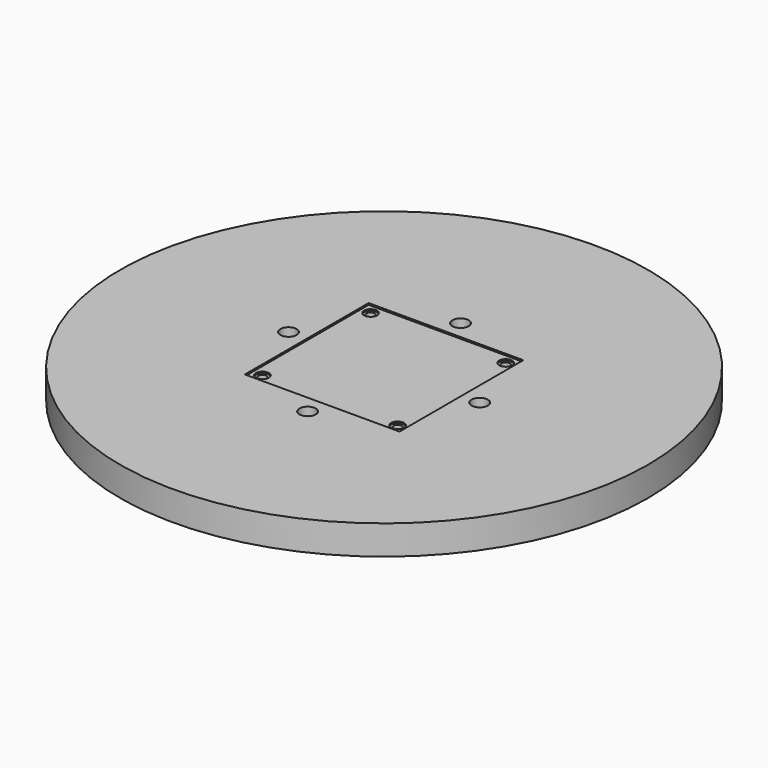
from build123d import *

# Parameters (mm, degrees)
SKETCH003_R      = 162.0844056183
PAD002_DEPTH     = 18
SKETCH009_W      = 95
SKETCH009_H      = 95
POCKET002_DEPTH  = 1
HOLE_D           = 5
HOLE_DEPTH       = 10
HOLE_CBORE_D     = 8
HOLE_CBORE_DEPTH = 1
SKETCH011_R      = 5
POCKET003_DEPTH  = 18.001


with BuildPart() as part:
    # Sketch003 → Pad002 (new body)
    with BuildSketch(Plane.XY):
        Circle(SKETCH003_R)
    extrude(amount=PAD002_DEPTH)

    # Sketch009 (on Face3 of Pad002) → Pocket002 (cut)
    with BuildSketch(Plane.XY.offset(18)):
        Rectangle(SKETCH009_W, SKETCH009_H)
    extrude(amount=-POCKET002_DEPTH, mode=Mode.SUBTRACT)

    # Hole
    with Locations(Plane.XY.offset(17)):
        with Locations((-41.5, 41.5), (41.5, 41.5), (-41.5, -41.5), (41.5, -41.5)):
            CounterBoreHole(HOLE_D / 2, HOLE_CBORE_D / 2, HOLE_CBORE_DEPTH, depth=HOLE_DEPTH)

    # Sketch011 (on Face3 of Hole) → Pocket003 (cut, through all)
    with BuildSketch(Plane.XY.offset(18)):
        with Locations((-58.6898628385, 0)):
            Circle(SKETCH011_R)
        with Locations((0, 58.6898628385)):
            Circle(SKETCH011_R)
        with Locations((58.6898628385, 0)):
            Circle(SKETCH011_R)
        with Locations((0, -58.6898628385)):
            Circle(SKETCH011_R)
    extrude(amount=-POCKET003_DEPTH, mode=Mode.SUBTRACT)


with BuildPart() as part_1:
    # Clone004 placement: moved
    add(part.part.moved(Location((0, 0, -24))))


with BuildPart() as part_2:
    # Clone015 placement: moved
    add(part_1.part.moved(Location((0, 0, 24))))


solid = part_2.part
